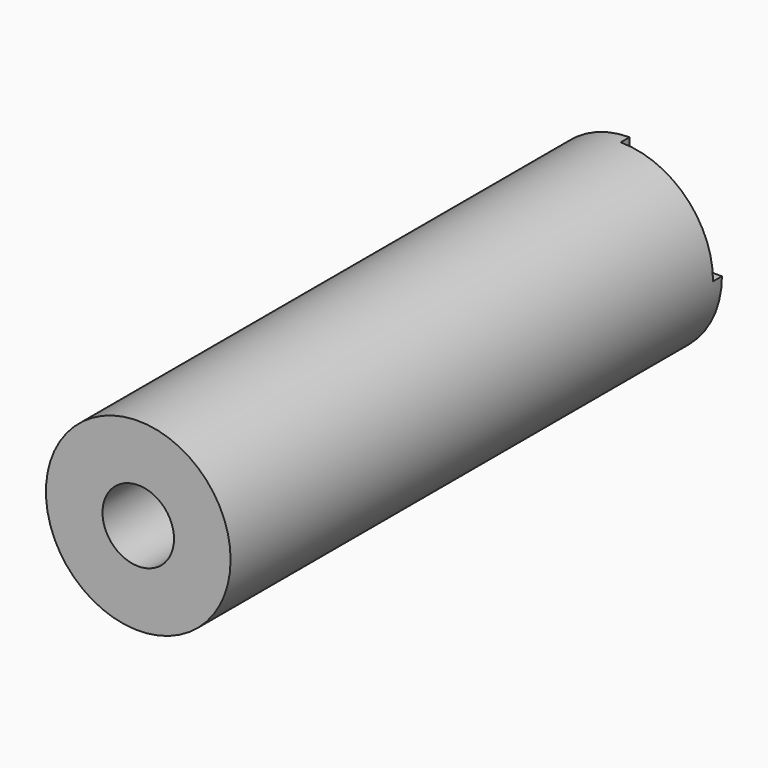
from build123d import *

# Parameters (mm, degrees)
F0_R     = 82.0039
F1_DEPTH = 545.338
F2_R     = 31.75
F3_DEPTH = 370.078
F4_R     = 7.62
F5_W     = 9.82706
F5_H     = 91.064006
F6_DEPTH = 117


with BuildPart() as f1:
    # F0 (on Front) → F1 (new body)
    with BuildSketch(Plane.XZ):
        Circle(F0_R)
    extrude(amount=F1_DEPTH)

    # F2 (on face) → F3 (cut)
    with BuildSketch(Plane.XZ.offset(545.338)):
        Circle(F2_R)
    extrude(amount=-F3_DEPTH, mode=Mode.SUBTRACT)

    # F4
    f4_edges = [f1.edges().sort_by_distance(p)[0] for p in [
        (-31.75, -175.26, 0),
    ]]
    fillet(f4_edges, radius=F4_R)

    # F5 (on Right) → F6 (cut)
    with BuildSketch(Plane.YZ):
        with Locations((-4.91353, 45.532003)):
            Rectangle(F5_W, F5_H)
    extrude(amount=F6_DEPTH, mode=Mode.SUBTRACT)


solid = f1.part
